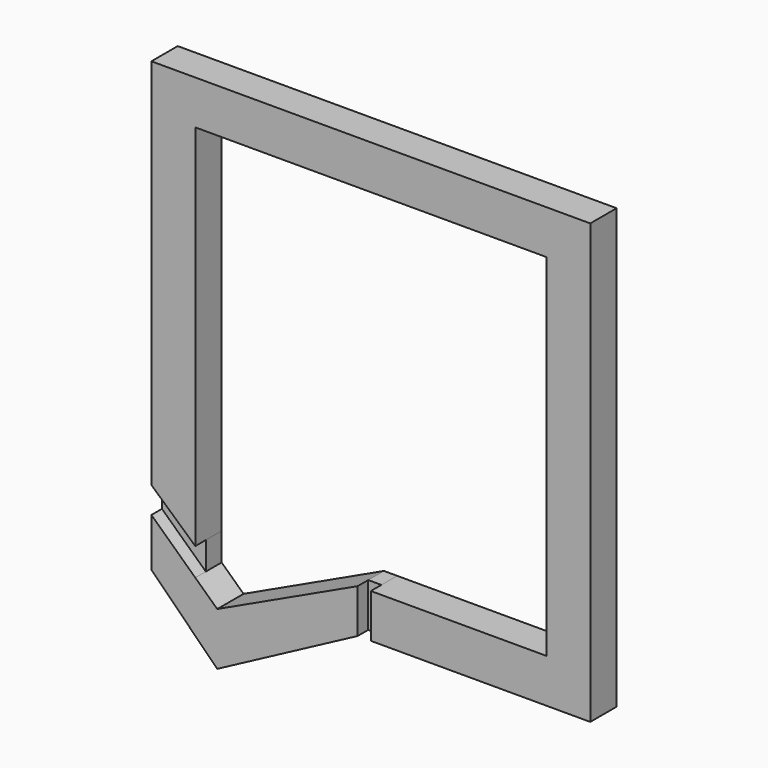
from build123d import *

# Parameters (mm, degrees)
F1_DEPTH = 3.81
F0_W     = 1.524
F0_H     = 5.08
F2_DEPTH = 2.286


with BuildPart() as f1:
    # F0 (on Front) → F1 (new body)
    with BuildSketch(Plane.XZ):
        Polygon((25.4, 29.718), (-25.4, 29.718), (-25.4, -13.462), (-20.32, -18.034), (-20.32, 24.638), (20.32, 24.638), (20.32, -16.002), (0, -16.002), (0, -21.082), (25.4, -21.082), align=None)
        Polygon((-20.32, -21.251333), (-25.4, -16.51), (-25.4, -22.098), (-17.78, -29.718), (-1.524, -21.082), (-1.524, -16.002), (-17.78, -23.622), align=None)
    extrude(amount=F1_DEPTH)


with BuildPart() as f2:
    # F0 (on Front) → F2 (new body)
    with BuildSketch(Plane.XZ):
        Polygon((-20.32, -18.034), (-25.4, -13.462), (-25.4, -16.51), (-20.32, -21.251333), align=None)
        with Locations((-0.762, -18.542)):
            Rectangle(F0_W, F0_H)
    extrude(amount=F2_DEPTH)


solid = Compound([f1.part, f2.part])
